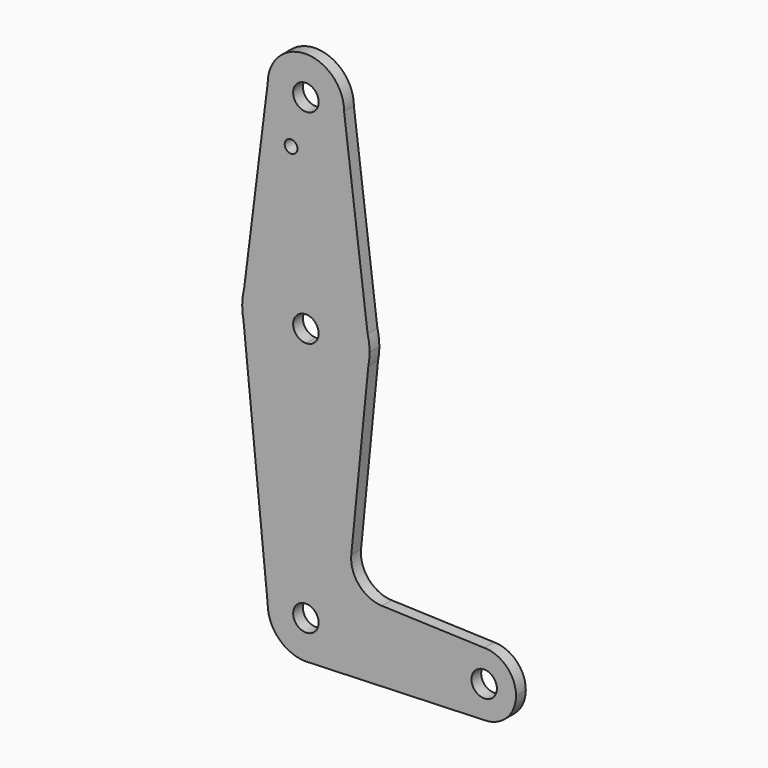
from build123d import *

# Parameters (mm, degrees)
F0_R     = 3.175
F0_R_2   = 1.5875
F1_DEPTH = 3.048


with BuildPart() as f1:
    # F0 (on Front) → F1 (new body)
    with BuildSketch(Plane.XZ):
        with BuildLine():
            ThreePointArc((-57.111761, 66.854606), (-47.586761, 57.329606), (-38.061761, 66.854606))
            ThreePointArc((-38.061761, 66.854606), (-47.586761, 76.379606), (-57.111761, 66.854606))
        make_face()
        with Locations((-47.586761, 66.854606)):
            Circle(F0_R, mode=Mode.SUBTRACT)
        with BuildLine():
            Line((-32.200223, 19.962298), (-38.061761, 66.854606))
            ThreePointArc((-38.061761, 66.854606), (-47.586761, 57.329606), (-57.111761, 66.854606))
            Line((-57.111761, 66.854606), (-62.9733, 19.962298))
            ThreePointArc((-62.9733, 19.962298), (-47.586761, 31.929606), (-32.200223, 19.962298))
        make_face()
        with Locations((-51.282421, 54.859027)):
            Circle(F0_R_2, mode=Mode.SUBTRACT)
        with BuildLine():
            ThreePointArc((-44.411761, 16.054606), (-49.831825, 18.29967), (-47.586761, 12.879606))
            ThreePointArc((-47.586761, 12.879606), (-45.341697, 13.809542), (-44.411761, 16.054606))
        make_face()
        with BuildLine():
            Line((-31.711761, 16.054606), (-32.200223, 19.962298))
            ThreePointArc((-32.200223, 19.962298), (-47.586761, 31.929606), (-62.9733, 19.962298))
            Line((-62.9733, 19.962298), (-63.461761, 16.054606))
            Line((-63.461761, 16.054606), (-63.147405, 12.911042))
            ThreePointArc((-63.147405, 12.911042), (-57.639411, 3.768034), (-47.586761, 0.179606))
            ThreePointArc((-47.586761, 0.179606), (-37.525146, 3.775375), (-32.021545, 12.933761))
            Line((-32.021545, 12.933761), (-31.711761, 16.054606))
        make_face()
        with BuildLine():
            ThreePointArc((-44.411761, 16.054606), (-45.341697, 13.809542), (-47.586761, 12.879606))
            ThreePointArc((-47.586761, 12.879606), (-49.831825, 18.29967), (-44.411761, 16.054606))
        make_face(mode=Mode.SUBTRACT)
        with BuildLine():
            ThreePointArc((-31.711761, 16.054606), (-31.83435, 18.023657), (-32.200223, 19.962298))
            Line((-32.200223, 19.962298), (-31.711761, 16.054606))
        make_face()
        with BuildLine():
            Line((-63.461761, 16.054606), (-62.9733, 19.962298))
            ThreePointArc((-62.9733, 19.962298), (-63.339173, 18.023657), (-63.461761, 16.054606))
        make_face()
        with BuildLine():
            ThreePointArc((-32.021545, 12.933761), (-31.789397, 14.486515), (-31.711761, 16.054606))
            Line((-31.711761, 16.054606), (-32.021545, 12.933761))
        make_face()
        with BuildLine():
            Line((-63.147405, 12.911042), (-63.461761, 16.054606))
            ThreePointArc((-63.461761, 16.054606), (-63.382977, 14.474985), (-63.147405, 12.911042))
        make_face()
        with BuildLine():
            Line((-36.270024, -29.866542), (-32.021545, 12.933761))
            ThreePointArc((-32.021545, 12.933761), (-37.525146, 3.775375), (-47.586761, 0.179606))
            Line((-47.586761, 0.179606), (-47.586761, -37.920394))
            ThreePointArc((-47.586761, -37.920394), (-40.851569, -40.710202), (-38.061761, -47.445394))
            ThreePointArc((-38.061761, -47.445394), (-40.615471, -53.935905), (-46.907271, -56.946126))
            Line((-46.907271, -56.946126), (-3.136761, -55.382894))
            ThreePointArc((-3.136761, -55.382894), (-11.074261, -47.445394), (-3.136761, -39.507894))
            Line((-3.136761, -39.507894), (-28.642459, -38.596976))
            ThreePointArc((-28.642459, -38.596976), (-34.345768, -35.882592), (-36.270024, -29.866542))
        make_face()
        with BuildLine():
            ThreePointArc((-47.586761, 0.179606), (-57.639411, 3.768034), (-63.147405, 12.911042))
            Line((-63.147405, 12.911042), (-57.111761, -47.445394))
            ThreePointArc((-57.111761, -47.445394), (-54.321954, -40.710202), (-47.586761, -37.920394))
            Line((-47.586761, -37.920394), (-47.586761, 0.179606))
        make_face()
        with BuildLine():
            ThreePointArc((-44.411761, -47.445394), (-45.341697, -45.20033), (-47.586761, -44.270394))
            ThreePointArc((-47.586761, -44.270394), (-49.831825, -49.690458), (-44.411761, -47.445394))
        make_face()
        with BuildLine():
            ThreePointArc((-47.586761, -37.920394), (-54.321954, -40.710202), (-57.111761, -47.445394))
            ThreePointArc((-57.111761, -47.445394), (-54.321954, -54.180586), (-47.586761, -56.970394))
            Line((-47.586761, -56.970394), (-46.907271, -56.946126))
            ThreePointArc((-46.907271, -56.946126), (-40.615471, -53.935905), (-38.061761, -47.445394))
            ThreePointArc((-38.061761, -47.445394), (-40.851569, -40.710202), (-47.586761, -37.920394))
        make_face()
        with BuildLine():
            ThreePointArc((-44.411761, -47.445394), (-49.831825, -49.690458), (-47.586761, -44.270394))
            ThreePointArc((-47.586761, -44.270394), (-45.341697, -45.20033), (-44.411761, -47.445394))
        make_face(mode=Mode.SUBTRACT)
        with BuildLine():
            Line((-46.907271, -56.946126), (-47.586761, -56.970394))
            ThreePointArc((-47.586761, -56.970394), (-47.2468, -56.964325), (-46.907271, -56.946126))
        make_face()
        with BuildLine():
            ThreePointArc((4.800739, -47.445394), (2.475899, -41.832734), (-3.136761, -39.507894))
            ThreePointArc((-3.136761, -39.507894), (-11.074261, -47.445394), (-3.136761, -55.382894))
            ThreePointArc((-3.136761, -55.382894), (2.475899, -53.058054), (4.800739, -47.445394))
        make_face()
        with Locations((-3.136761, -47.445394)):
            Circle(F0_R, mode=Mode.SUBTRACT)
    extrude(amount=F1_DEPTH)


solid = f1.part
